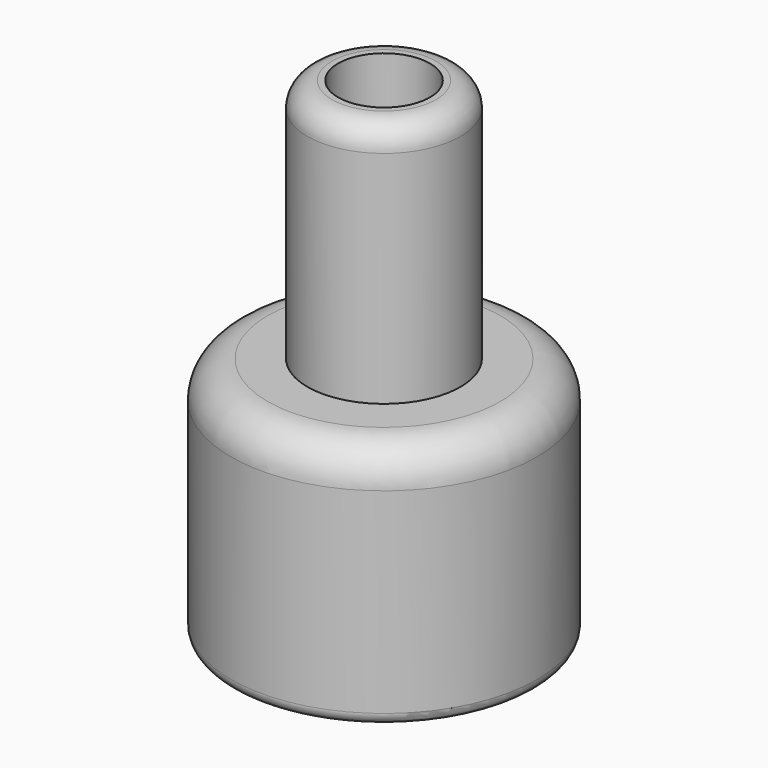
from build123d import *


with BuildPart() as f1:
    # F0 (on Front) → F1 (revolve)
    with BuildSketch(Plane.XZ):
        with BuildLine():
            Line((-15.875, 22.86), (-15.875, 2.54))
            ThreePointArc((-15.875, 2.54), (-15.503026, 1.641974), (-14.605, 1.27))
            Line((-14.605, 1.27), (-12.7, 1.27))
            add(Edge.make_bspline(
                [(-4.7625, 24.587877), (-4.910941, 17.2893), (-12.796914, 11.896686), (-12.7, 1.27)],
                knots=[0, 0, 0, 0, 24.631835, 24.631835, 24.631835, 24.631835], degree=3))
            Line((-4.7625, 24.587877), (-4.7625, 52.07))
            Line((-4.7625, 52.07), (-5.3975, 52.07))
            ThreePointArc((-5.3975, 52.07), (-7.193551, 51.326051), (-7.9375, 49.53))
            Line((-7.9375, 49.53), (-7.9375, 26.67))
            Line((-7.9375, 26.67), (-12.065, 26.67))
            ThreePointArc((-12.065, 26.67), (-14.759077, 25.554077), (-15.875, 22.86))
        make_face()
    revolve(axis=Axis((0, 0, 25.536608), (0, 0, 1)))


solid = f1.part
